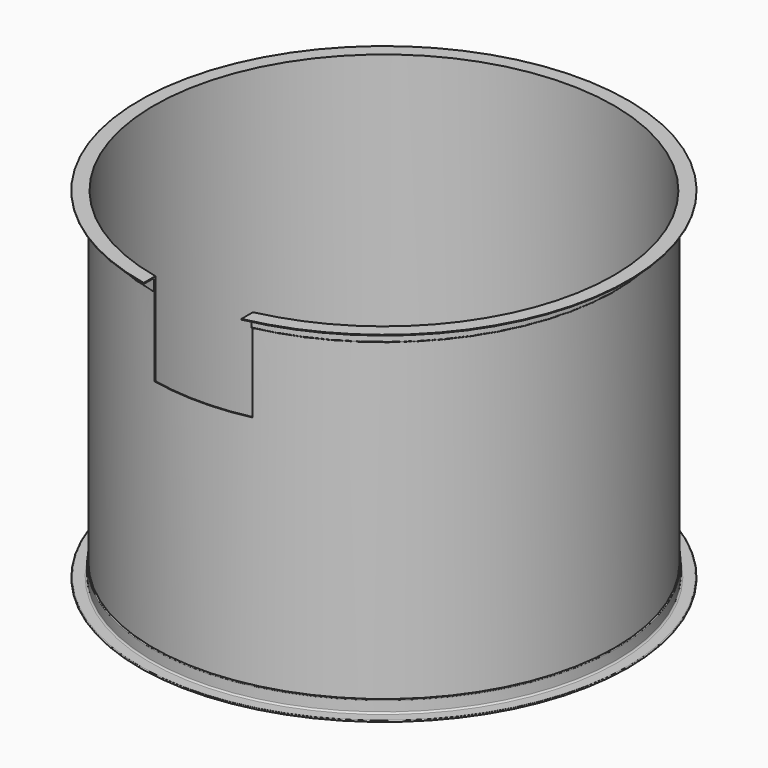
from build123d import *

# Parameters (mm, degrees)
SKETCH001_W   = 550
SKETCH001_H   = 520
EXTRUDE_DEPTH = 1700
SKETCH_W      = 5
SKETCH_H      = 1920


with BuildPart() as extrude_body:
    # Sketch001 → Extrude (new body)
    with BuildSketch(Plane.XZ):
        with Locations((0, 1660)):
            Rectangle(SKETCH001_W, SKETCH001_H)
    extrude(amount=EXTRUDE_DEPTH)


with BuildPart() as revolve001:
    # AngleSteel → Revolve001 (revolve)
    with BuildSketch(Plane(origin=(1320.58985, 0, 20.58985), x_dir=(1, 0, 0), z_dir=(0, 1, 0))):
        with BuildLine():
            Line((-20.58985, 20.58985), (-20.58985, -54.41015))
            Line((-20.58985, -54.41015), (-18.58985, -54.41015))
            ThreePointArc((-18.58985, -54.41015), (-15.761423, -53.238577), (-14.58985, -50.41015))
            Line((-14.58985, -50.41015), (-14.58985, 6.08985))
            ThreePointArc((-14.58985, 6.08985), (-12.100258, 12.100258), (-6.08985, 14.58985))
            Line((-6.08985, 14.58985), (50.41015, 14.58985))
            ThreePointArc((50.41015, 14.58985), (53.238577, 15.761423), (54.41015, 18.58985))
            Line((54.41015, 18.58985), (54.41015, 20.58985))
            Line((54.41015, 20.58985), (-20.58985, 20.58985))
        make_face()
    revolve(axis=Axis((0, 0, 0), (0, 0, 1)))


with BuildPart() as revolve002:
    # AngleSteel001 → Revolve002 (revolve)
    with BuildSketch(Plane(origin=(1320.58985, 0, 1899.41015), x_dir=(1, 0, 0), z_dir=(0, 1, 0))):
        with BuildLine():
            Line((-20.58985, -20.58985), (54.41015, -20.58985))
            Line((54.41015, -20.58985), (54.41015, -18.58985))
            ThreePointArc((54.41015, -18.58985), (53.238577, -15.761423), (50.41015, -14.58985))
            Line((50.41015, -14.58985), (-6.08985, -14.58985))
            ThreePointArc((-6.08985, -14.58985), (-12.100258, -12.100258), (-14.58985, -6.08985))
            Line((-14.58985, -6.08985), (-14.58985, 50.41015))
            ThreePointArc((-14.58985, 50.41015), (-15.761423, 53.238577), (-18.58985, 54.41015))
            Line((-18.58985, 54.41015), (-20.58985, 54.41015))
            Line((-20.58985, 54.41015), (-20.58985, -20.58985))
        make_face()
    revolve(axis=Axis((0, 0, 0), (0, 0, 1)))


with BuildPart() as cut:
    # Sketch → Revolve (revolve)
    with BuildSketch(Plane.XZ):
        with Locations((1297.5, 960)):
            Rectangle(SKETCH_W, SKETCH_H)
    revolve(axis=Axis((0, 0, 0), (0, 0, 1)))

    # Fusion: union Revolve001, Revolve002
    add(revolve001.part)
    add(revolve002.part)

    # Cut: cut Extrude body
    add(extrude_body.part, mode=Mode.SUBTRACT)


solid = cut.part
